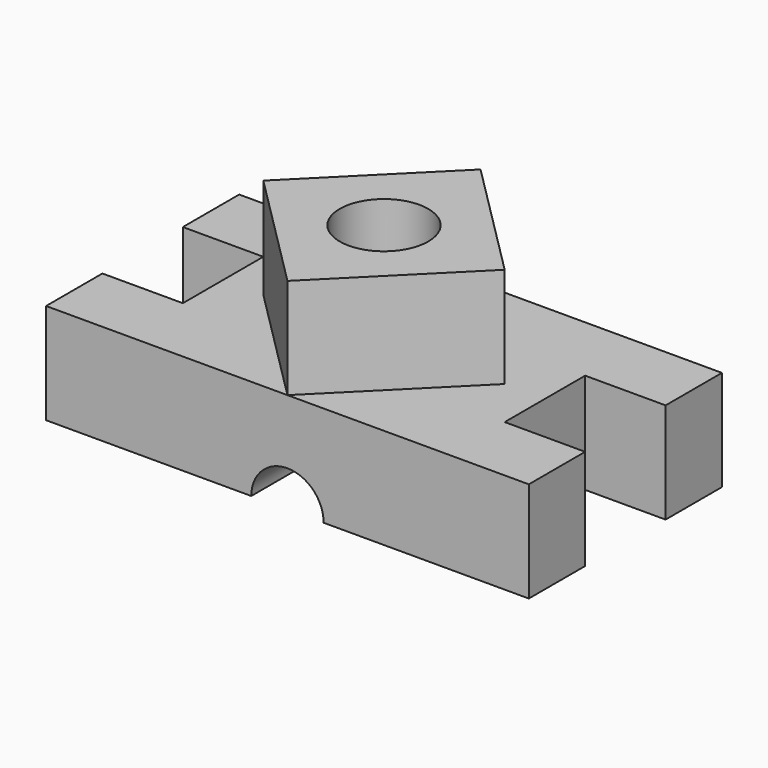
from build123d import *

# Parameters (mm, degrees)
F0_W     = 1200
F0_H     = 600
F1_DEPTH = 250
F2_W     = 200
F2_H     = 250
F3_DEPTH = 250.001
F5_DEPTH = 250
F6_R     = 110
F7_DEPTH = 500.001
F9_DEPTH = 600.001


with BuildPart() as f1:
    # F0 (on Top) → F1 (new body)
    with BuildSketch(Plane.XY):
        Rectangle(F0_W, F0_H)
    extrude(amount=F1_DEPTH)

    # F2 (on face) → F3 (cut, through all)
    with BuildSketch(Plane.XY.offset(250)):
        with Locations((-500, 0)):
            Rectangle(F2_W, F2_H)
        with Locations((500, 0)):
            Rectangle(F2_W, F2_H)
    extrude(amount=-F3_DEPTH, mode=Mode.SUBTRACT)

    # F4 (on face) → F5 (join)
    with BuildSketch(Plane.XY.offset(250)):
        Polygon((-300, 0), (0, -300), (300, 0), (0, 300), align=None)
    extrude(amount=F5_DEPTH)

    # F6 (on face) → F7 (cut, through all)
    with BuildSketch(Plane.XY.offset(500)):
        Circle(F6_R)
    extrude(amount=-F7_DEPTH, mode=Mode.SUBTRACT)

    # F8 (on face) → F9 (cut, through all)
    with BuildSketch(Plane.XZ.offset(300)):
        with BuildLine():
            Line((-90, 0), (90, 0))
            ThreePointArc((90, 0), (0, 90), (-90, 0))
        make_face()
    extrude(amount=-F9_DEPTH, mode=Mode.SUBTRACT)


solid = f1.part
